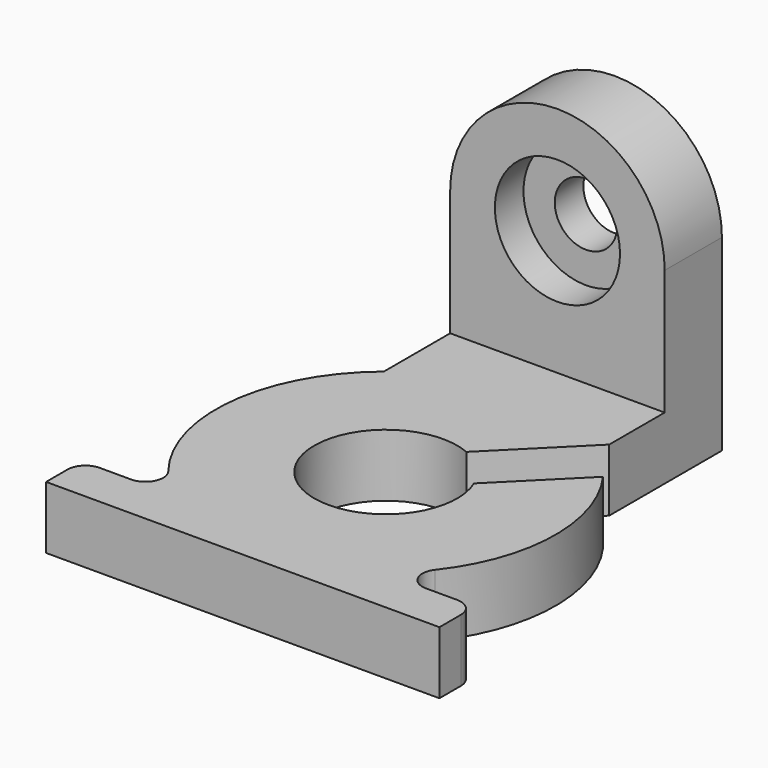
from build123d import *

# Parameters (mm, degrees)
PAD_DEPTH       = 11.1125
PAD001_DEPTH    = 12.7
SKETCH002_R     = 11.1125
POCKET_DEPTH    = 6.35
SKETCH003_R     = 5.55625
POCKET001_DEPTH = 6.351


with BuildPart() as part:
    # Sketch → Pad (new body)
    with BuildSketch(Plane.XY):
        with BuildLine():
            ThreePointArc((4.957324, 11.692516), (-8.980256, -8.980256), (11.692516, 4.957324))
            Line((24.428163, 17.692971), (11.692516, 4.957324))
            ThreePointArc((23.688223, -18.672024), (30.156258, -0.613607), (24.428163, 17.692971))
            ThreePointArc((23.688223, -18.672024), (23.325058, -22.023177), (26.181706, -23.8125))
            Line((31.75, -23.8125), (26.181706, -23.8125))
            ThreePointArc((34.925, -26.9875), (33.995064, -24.742436), (31.75, -23.8125))
            Line((34.925, -31.75), (34.925, -26.9875))
            Line((-34.925, -31.75), (34.925, -31.75))
            Line((-34.925, -31.75), (-34.925, -26.9875))
            ThreePointArc((-31.75, -23.8125), (-33.995064, -24.742436), (-34.925, -26.9875))
            Line((-31.75, -23.8125), (-26.181706, -23.8125))
            ThreePointArc((-26.181706, -23.8125), (-23.325058, -22.023177), (-23.688223, -18.672024))
            ThreePointArc((-19.05, 23.385335), (-29.980732, 3.306373), (-23.688223, -18.672024))
            Line((-19.05, 23.385335), (-19.05, 38.1))
            Line((-19.05, 38.1), (19.05, 38.1))
            Line((19.05, 38.1), (19.05, 25.785192))
            Line((19.05, 25.785192), (4.957324, 11.692516))
        make_face()
    extrude(amount=PAD_DEPTH)

    # Sketch001 → Pad001 (new body)
    with BuildSketch(Plane(origin=(0, 38.1, 0), x_dir=(-1, 0, 0), z_dir=(0, 1, 0))):
        with BuildLine():
            Line((-19.05, 0), (19.05, 0))
            Line((19.05, 0), (19.05, 11.1125))
            Line((19.049953, 33.337541), (19.05, 11.1125))
            ThreePointArc((19.049953, 33.337541), (-2.3e-05, 52.387477), (-19.05, 33.337541))
            Line((-19.05, 33.337541), (-19.05, 11.1125))
            Line((-19.05, 0), (-19.05, 11.1125))
        make_face()
    extrude(amount=PAD001_DEPTH)

    # Sketch002 → Pocket (cut)
    with BuildSketch(Plane.XZ.offset(-38.1)):
        with Locations((0, 33.3375)):
            Circle(SKETCH002_R)
    extrude(amount=-POCKET_DEPTH, mode=Mode.SUBTRACT)

    # Sketch003 → Pocket001 (cut, through all)
    with BuildSketch(Plane.XZ.offset(-44.45)):
        with Locations((0, 33.3375)):
            Circle(SKETCH003_R)
    extrude(amount=-POCKET001_DEPTH, mode=Mode.SUBTRACT)


solid = part.part
